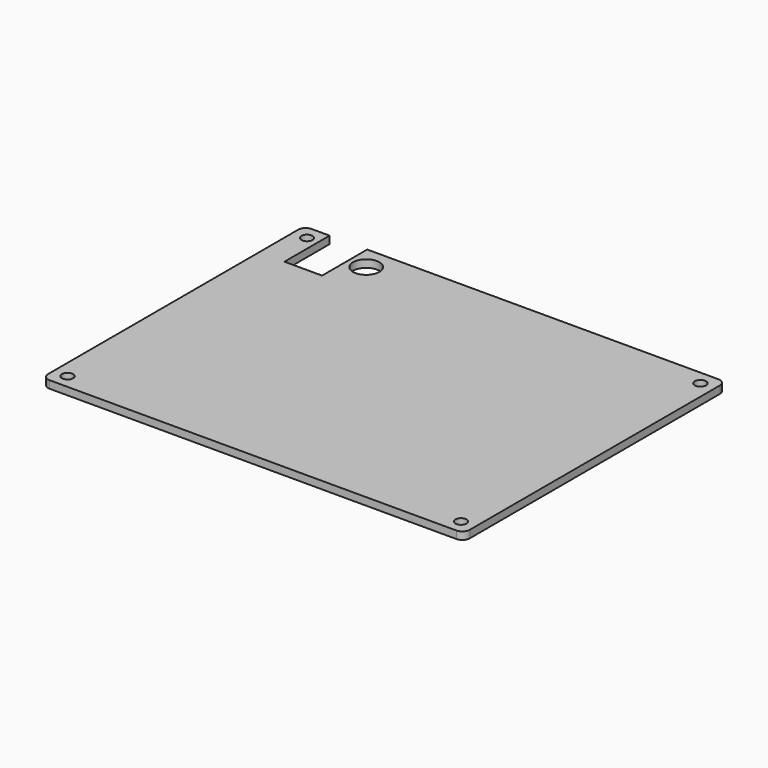
from build123d import *

# Parameters (mm, degrees)
F0_W     = 112
F0_H     = 87
F0_R     = 1.5
F1_DEPTH = 2
F2_R     = 2
F3_W     = 10
F3_H     = 15
F3_R     = 3.5
F4_DEPTH = 2.001


with BuildPart() as f1:
    # F0 (on Top) → F1 (new body)
    with BuildSketch(Plane.XY):
        Rectangle(F0_W, F0_H)
        with Locations((-52.25, -39.75)):
            Circle(F0_R, mode=Mode.SUBTRACT)
        with Locations((52.25, -39.75)):
            Circle(F0_R, mode=Mode.SUBTRACT)
        with Locations((-52.25, 39.75)):
            Circle(F0_R, mode=Mode.SUBTRACT)
        with Locations((52.25, 39.75)):
            Circle(F0_R, mode=Mode.SUBTRACT)
    extrude(amount=F1_DEPTH)

    # F2
    f2_edges = [f1.edges().sort_by_distance(p)[0] for p in [
        (-56, -43.5, 1),
        (-56, 43.5, 1),
        (56, 43.5, 1),
        (56, -43.5, 1),
    ]]
    fillet(f2_edges, radius=F2_R)

    # F3 (on face) → F4 (cut, through all)
    with BuildSketch(Plane.XY.offset(2)):
        with Locations((-44.25, 36)):
            Rectangle(F3_W, F3_H)
        with Locations((-34.5, 37.2)):
            Circle(F3_R)
    extrude(amount=-F4_DEPTH, mode=Mode.SUBTRACT)


solid = f1.part
